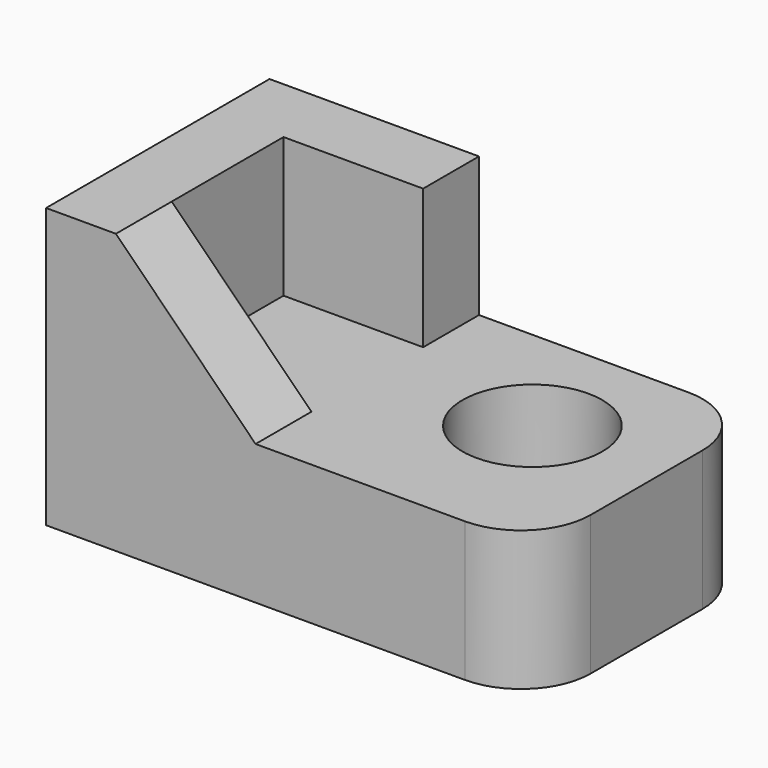
from build123d import *

# Parameters (mm, degrees)
F0_W      = 1778
F0_H      = 1016
F0_R      = 254
F1_DEPTH  = 508
F2_R      = 254
F3_W      = 254
F3_H      = 1016
F4_DEPTH  = 508
F5_W      = 508
F5_H      = 254
F6_DEPTH  = 508
F7_W      = 508
F7_H      = 254
F8_DEPTH  = 508
F10_DEPTH = 254


with BuildPart() as f1:
    # F0 (on Top) → F1 (new body)
    with BuildSketch(Plane.XY):
        with Locations((-829.280311, 467.563289)):
            Rectangle(F0_W, F0_H)
        with Locations((-412.175477, 538.300574)):
            Circle(F0_R, mode=Mode.SUBTRACT)
    extrude(amount=F1_DEPTH)

    # F2
    f2_edges = [f1.edges().sort_by_distance(p)[0] for p in [
        (59.719689, -40.436711, 254),
        (59.719689, 975.563289, 254),
    ]]
    fillet(f2_edges, radius=F2_R)

    # F3 (on face) → F4 (join)
    with BuildSketch(Plane.XY.offset(508)):
        with Locations((-1591.280311, 467.563289)):
            Rectangle(F3_W, F3_H)
    extrude(amount=F4_DEPTH)

    # F5 (on face) → F6 (join)
    with BuildSketch(Plane.XY.offset(508)):
        with Locations((-1210.280311, 848.563289)):
            Rectangle(F5_W, F5_H)
    extrude(amount=F6_DEPTH)

    # F7 (on face) → F8 (join)
    with BuildSketch(Plane.XY.offset(508)):
        with Locations((-1210.280311, 86.563289)):
            Rectangle(F7_W, F7_H)
    extrude(amount=F8_DEPTH)

    # F9 (on face) → F10 (cut)
    with BuildSketch(Plane.XZ.offset(40.436711)):
        Polygon((-1464.280311, 1016), (-956.280311, 508), (-956.280311, 1016), align=None)
    extrude(amount=-F10_DEPTH, mode=Mode.SUBTRACT)


solid = f1.part
